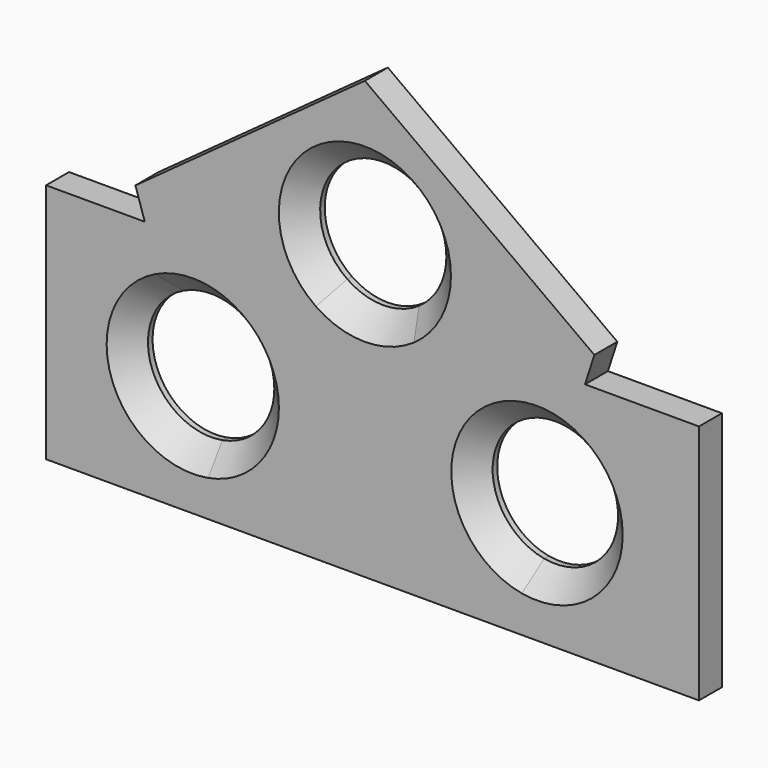
from build123d import *

# Parameters (mm, degrees)
F1_DEPTH = 2.5
F2_SIZE  = 2


with BuildPart() as f1:
    # F0 (on Front) → F1 (new body)
    with BuildSketch(Plane.XZ):
        with BuildLine():
            Line((20, 6.4983939247), (0, 21.0292444848))
            Line((0, 21.0292444848), (-20, 6.4983939247))
            Line((-20, 6.4983939247), (-19.1806086697, 3.976566717))
            Line((-19.1806086697, 3.976566717), (-3.1309868579, 3.976566717))
            ThreePointArc((-3.1309868579, 3.976566717), (-2.5524079103, 13.3702738348), (5.5, 8.4983939247))
            ThreePointArc((5.5, 8.4983939247), (4.8718799102, 5.9459860143), (3.1309868579, 3.976566717))
            Line((3.1309868579, 3.976566717), (19.1806086697, 3.976566717))
            Line((19.1806086697, 3.976566717), (20, 6.4983939247))
        make_face()
        with BuildLine():
            Line((29.1157588363, 3.976566717), (19.1806086697, 3.976566717))
            Line((19.1806086697, 3.976566717), (17.3775660969, -1.5726277263))
            ThreePointArc((17.3775660969, -1.5726277263), (19.6325054401, -3.5904932157), (20.4695514611, -6.4983939247))
            ThreePointArc((20.4695514611, -6.4983939247), (18.5071837485, -10.6954947502), (14.02819865, -11.8809207775))
            Line((14.02819865, -11.8809207775), (12.360679775, -17.013016167))
            Line((12.360679775, -17.013016167), (-12.360679775, -17.013016167))
            Line((-12.360679775, -17.013016167), (-14.0168260009, -11.9159221924))
            ThreePointArc((-14.0168260009, -11.9159221924), (-20.236535112, -8.1998473226), (-17.388938746, -1.5376263114))
            Line((-17.388938746, -1.5376263114), (-19.1806086697, 3.976566717))
            Line((-19.1806086697, 3.976566717), (-27.784332633, 3.976566717))
            Line((-27.784332633, 3.976566717), (-27.784332633, -17.0448571444))
            Line((-27.784332633, -17.0448571444), (29.1157588363, -17.0448571444))
            Line((29.1157588363, -17.0448571444), (29.1157588363, 3.976566717))
        make_face()
        with BuildLine():
            Line((17.3775660969, -1.5726277263), (19.1806086697, 3.976566717))
            Line((19.1806086697, 3.976566717), (3.1309868579, 3.976566717))
            ThreePointArc((3.1309868579, 3.976566717), (0, 2.9983939247), (-3.1309868579, 3.976566717))
            Line((-3.1309868579, 3.976566717), (-19.1806086697, 3.976566717))
            Line((-19.1806086697, 3.976566717), (-17.388938746, -1.5376263114))
            ThreePointArc((-17.388938746, -1.5376263114), (-12.0706057057, -1.8363243506), (-9.4939811438, -6.4983939247))
            ThreePointArc((-9.4939811438, -6.4983939247), (-10.7733217403, -10.0270529523), (-14.0168260009, -11.9159221924))
            Line((-14.0168260009, -11.9159221924), (-12.360679775, -17.013016167))
            Line((-12.360679775, -17.013016167), (12.360679775, -17.013016167))
            Line((12.360679775, -17.013016167), (14.02819865, -11.8809207775))
            ThreePointArc((14.02819865, -11.8809207775), (9.7981474417, -4.8082095716), (17.3775660969, -1.5726277263))
        make_face()
    extrude(amount=F1_DEPTH)

    # F2
    f2_edges = [f1.edges().sort_by_distance(p)[0] for p in [
        (-3.130987, -2.5, 13.020221),
        (12.622434, -2.5, -11.42416),
        (-20.506019, -2.5, -6.498394),
    ]]
    chamfer(f2_edges, length=F2_SIZE)


solid = f1.part
